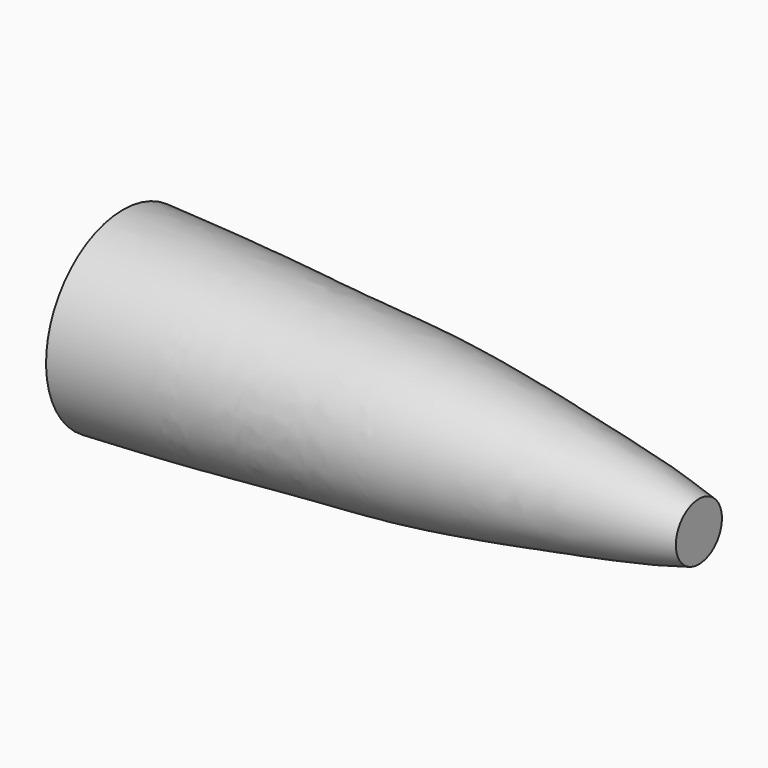
from build123d import *


with BuildPart() as f1:
    # F0 (on Front) → F1 (revolve)
    with BuildSketch(Plane.XZ):
        with BuildLine():
            Line((-120, 0), (0, 0))
            Line((0, 0), (0, 6))
            add(Edge.make_bspline(
                [(0, 6), (-2.4289145378, 6.6563846888), (-8.2705162051, 8.2350066752), (-24.4027474171, 11.0788361144), (-41.8050581803, 14.0972718153), (-57.8876661109, 16.1704213555), (-71.8979805632, 16.9521092619), (-86.1927924876, 18.002862498), (-100.1824333591, 19.103435323), (-113.0151029556, 19.6839969268), (-120, 20)],
                knots=[0, 0, 0, 0, 0.0929091374, 0.2234488548, 0.361659743, 0.4915793017, 0.6127918988, 0.7340044958, 0.8552170928, 1, 1, 1, 1], degree=3))
            Line((-120, 20), (-120, 0))
        make_face()
    revolve(axis=Axis((-60, 0, 0), (1, 0, 0)))


solid = f1.part
